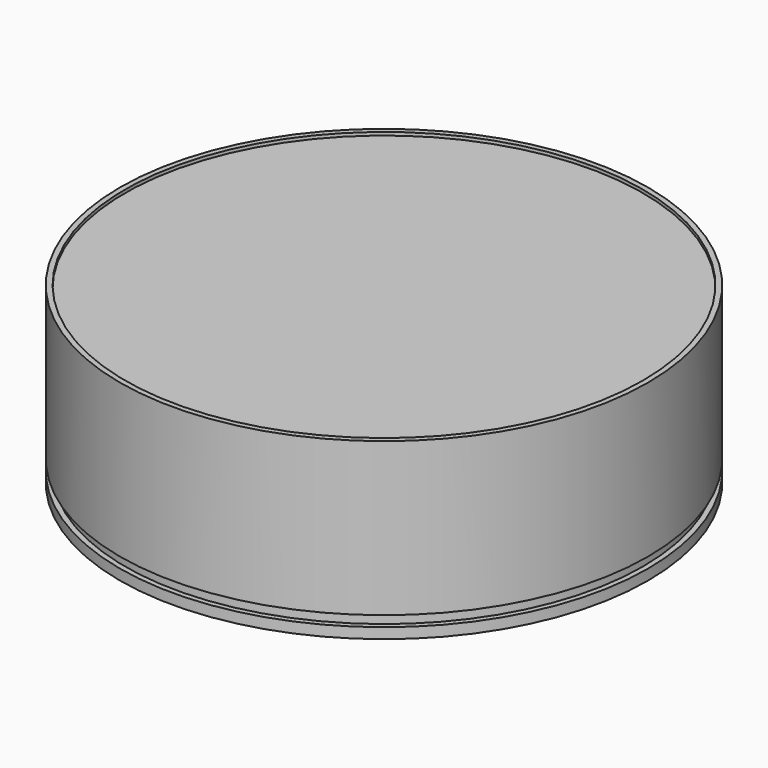
from build123d import *

# Parameters (mm, degrees)
F0_R     = 25
F1_DEPTH = 1
F2_R     = 24.5
F3_DEPTH = 1
F4_R     = 25
F4_R_2   = 24.5
F6_DEPTH = 14.5
F5_R     = 24.5
F7_DEPTH = 14.2


with BuildPart() as f1:
    # F0 (on Top) → F1 (new body)
    with BuildSketch(Plane.XY):
        Circle(F0_R)
    extrude(amount=F1_DEPTH)

    # F2 (on face) → F3 (join)
    with BuildSketch(Plane.XY.offset(1)):
        Circle(F2_R)
    extrude(amount=F3_DEPTH)


with BuildPart() as f6:
    # F4 (on face) → F6 (new body)
    with BuildSketch(Plane.XY.offset(2)):
        Circle(F4_R)
        Circle(F4_R_2, mode=Mode.SUBTRACT)
    extrude(amount=F6_DEPTH)


with BuildPart() as f7:
    # F5 (on face) → F7 (new body)
    with BuildSketch(Plane.XY.offset(2)):
        Circle(F5_R)
    extrude(amount=F7_DEPTH)


solid = Compound([f1.part, f6.part, f7.part])
